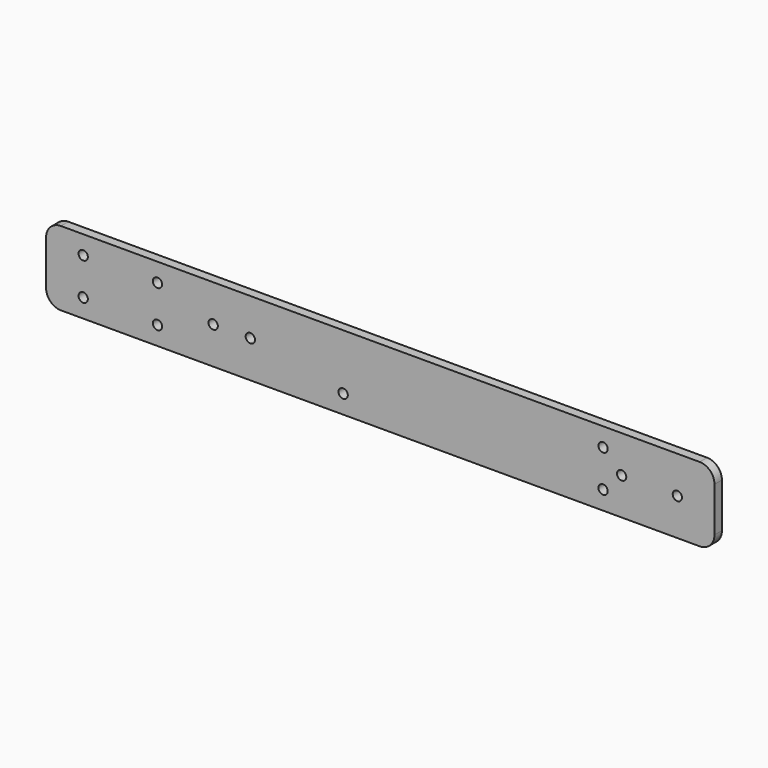
from build123d import *

# Parameters (mm, degrees)
F0_W     = 228.6
F0_H     = 25.4
F0_R     = 1.5875
F1_DEPTH = 1.5875
F2_R     = 5.08


with BuildPart() as f1:
    # F0 (on Front) → F1 (new body, symmetric)
    with BuildSketch(Plane.XZ):
        with Locations((11.800035, 6.35)):
            Rectangle(F0_W, F0_H)
        with Locations((-89.799965, 0)):
            Circle(F0_R, mode=Mode.SUBTRACT)
        with Locations((-64.399965, 0)):
            Circle(F0_R, mode=Mode.SUBTRACT)
        with Locations((-0.899965, 0)):
            Circle(F0_R, mode=Mode.SUBTRACT)
        with Locations((-45.349965, 6.35)):
            Circle(F0_R, mode=Mode.SUBTRACT)
        with Locations((-32.649965, 6.35)):
            Circle(F0_R, mode=Mode.SUBTRACT)
        with Locations((88.000035, 0)):
            Circle(F0_R, mode=Mode.SUBTRACT)
        with Locations((94.350035, 6.35)):
            Circle(F0_R, mode=Mode.SUBTRACT)
        with Locations((113.400035, 6.35)):
            Circle(F0_R, mode=Mode.SUBTRACT)
        with Locations((-89.799965, 12.7)):
            Circle(F0_R, mode=Mode.SUBTRACT)
        with Locations((-64.399965, 12.7)):
            Circle(F0_R, mode=Mode.SUBTRACT)
        with Locations((88.000035, 12.7)):
            Circle(F0_R, mode=Mode.SUBTRACT)
    extrude(amount=F1_DEPTH, both=True)

    # F2
    f2_edges = [f1.edges().sort_by_distance(p)[0] for p in [
        (-102.499965, 0, 19.05),
        (-102.499965, 0, -6.35),
        (126.100035, 0, 19.05),
        (126.100035, 0, -6.35),
    ]]
    fillet(f2_edges, radius=F2_R)


solid = f1.part
